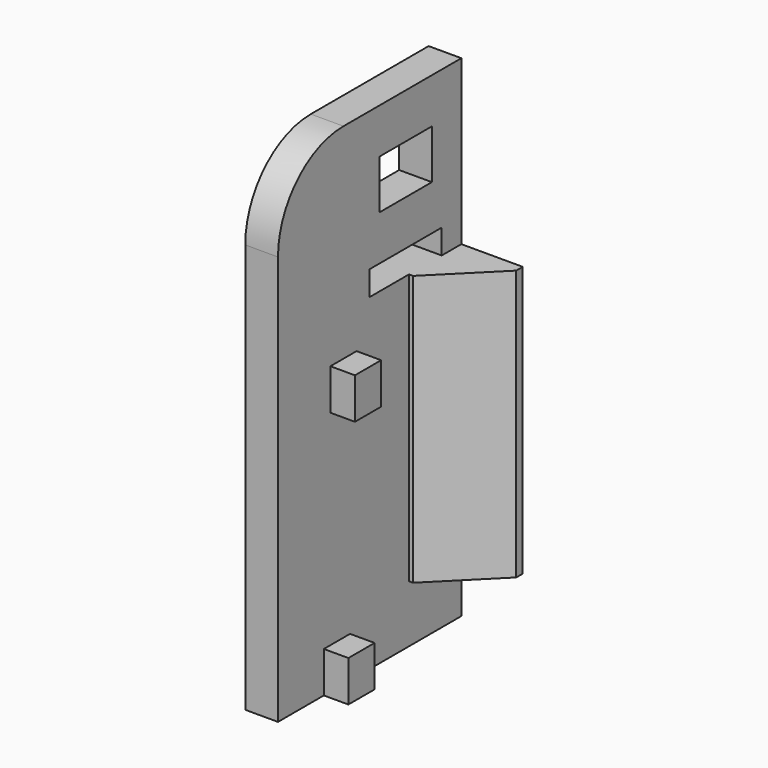
from build123d import *

# Parameters (mm, degrees)
F0_W      = 28
F0_H      = 60
F1_DEPTH  = 4
F2_W      = 4
F2_H      = 5
F3_DEPTH  = 3
F4_W      = 4
F4_H      = 5
F5_DEPTH  = 4
F6_R      = 1
F7_DEPTH  = 25
F8_R      = 10
F9_W      = 8
F9_H      = 6
F9_R      = 1
F9_W_2    = 11
F9_H_2    = 3
F10_DEPTH = 25
F12_DEPTH = 7.5
F13_SIZE  = 7


with BuildPart() as f1:
    # F0 (on Right) → F1 (new body)
    with BuildSketch(Plane.YZ):
        with Locations((25.744221, 41.653179)):
            Rectangle(F0_W, F0_H)
    extrude(amount=F1_DEPTH)

    # F2 (on face) → F3 (join)
    with BuildSketch(Plane.YZ.offset(4)):
        with Locations((21.744221, 44.153179)):
            Rectangle(F2_W, F2_H)
        with Locations((20.744221, 14.153179)):
            Rectangle(F2_W, F2_H)
    extrude(amount=F3_DEPTH)

    # F4 (on face) → F5 (join)
    with BuildSketch(Plane(origin=(0, 0, 0), x_dir=(0, -1, 0), z_dir=(-1, 0, 0))):
        with Locations((-41.744221, 38.653179)):
            Rectangle(F4_W, F4_H)
        with Locations((-41.744221, 28.653179)):
            Rectangle(F4_W, F4_H)
        with Locations((-41.744221, 18.653179)):
            Rectangle(F4_W, F4_H)
    extrude(amount=-F5_DEPTH)

    # F6 (on face) → F7 (cut)
    with BuildSketch(Plane.XY.offset(41.153179)):
        with Locations((2, 41.744221)):
            Circle(F6_R)
        Polygon((4, 43.744221), (2.828427, 43.744221), (4, 42.572648), align=None)
    extrude(amount=-F7_DEPTH, mode=Mode.SUBTRACT)

    # F8
    f8_edges = [f1.edges().sort_by_distance(p)[0] for p in [
        (2, 11.744221, 71.653179),
    ]]
    fillet(f8_edges, radius=F8_R)

    # F9 (on face) → F10 (cut)
    with BuildSketch(Plane(origin=(0, 0, 0), x_dir=(0, -1, 0), z_dir=(-1, 0, 0))):
        with Locations((-31.244221, 63.153179)):
            Rectangle(F9_W, F9_H)
        with Locations((-31.244221, 63.153179)):
            Circle(F9_R, mode=Mode.SUBTRACT)
        with Locations((-31.244221, 63.153179)):
            Circle(F9_R)
        with Locations((-31.244221, 53.153179)):
            Rectangle(F9_W_2, F9_H_2)
    extrude(amount=-F10_DEPTH, mode=Mode.SUBTRACT)

    # F11 (on face) → F12 (join)
    with BuildSketch(Plane.YZ.offset(4)):
        Polygon((39.744221, 41.153179), (39.744221, 51.653179), (36.744221, 51.653179), (31.744221, 51.653179), (31.744221, 18.653179), (39.744221, 18.653179), (39.744221, 21.153179), (39.744221, 26.153179), (39.744221, 31.153179), (39.744221, 36.153179), align=None)
    extrude(amount=F12_DEPTH)

    # F13
    f13_edges = [f1.edges().sort_by_distance(p)[0] for p in [
        (11.5, 31.744221, 35.153179),
    ]]
    chamfer(f13_edges, length=F13_SIZE)


solid = f1.part
